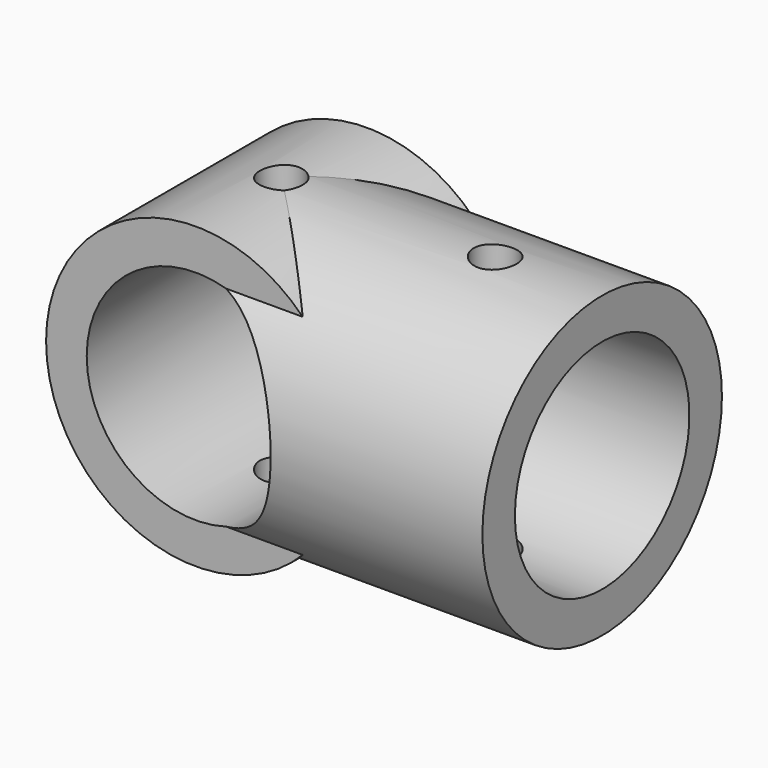
from build123d import *

# Parameters (mm, degrees)
CYLINDER001_R          = 10.2
CYLINDER001_DEPTH      = 20
CYLINDER002_R          = 2
CYLINDER002_DEPTH      = 30
CYLINDER003_R          = 2
CYLINDER003_DEPTH      = 30
CYLINDER_R             = 10.2
CYLINDER_DEPTH         = 30
CYLINDER_ROLL_ANGLE    = -90
CYLINDER004_R          = 14
CYLINDER004_DEPTH      = 30
CYLINDER005_R          = 14
CYLINDER005_DEPTH      = 20
CYLINDER005_ROLL_ANGLE = -90


with BuildPart() as cylinder001:
    # Cylinder001 → Cylinder001 (new body)
    with BuildSketch(Plane(origin=(10, 0, 0), x_dir=(0, -1, 0), z_dir=(1, 0, 0))):
        Circle(CYLINDER001_R)
    extrude(amount=CYLINDER001_DEPTH)


with BuildPart() as cylinder002:
    # Cylinder002 → Cylinder002 (new body)
    with BuildSketch(Plane.XY.offset(-15)):
        Circle(CYLINDER002_R)
    extrude(amount=CYLINDER002_DEPTH)


with BuildPart() as cylinder003:
    # Cylinder003 → Cylinder003 (new body)
    with BuildSketch(Plane(origin=(20, 0, -15), x_dir=(1, 0, 0), z_dir=(0, 0, 1))):
        Circle(CYLINDER003_R)
    extrude(amount=CYLINDER003_DEPTH)


with BuildPart() as negative_fusion:
    # Cylinder → Cylinder (new body)
    with BuildSketch(Plane.XY):
        Circle(CYLINDER_R)
    extrude(amount=CYLINDER_DEPTH)


with BuildPart() as negative_fusion_1:
    # Cylinder roll: moved
    add(negative_fusion.part.rotate(Axis((0, 0, 0), (1, 0, 0)), CYLINDER_ROLL_ANGLE))


with BuildPart() as negative_fusion_2:
    # Cylinder placement: moved
    add(negative_fusion_1.part.moved(Location((0, -15, 0))))

    # Fusion: union Cylinder001, Cylinder002, Cylinder003
    add(cylinder001.part)
    add(cylinder002.part)
    add(cylinder003.part)


with BuildPart() as cylinder004:
    # Cylinder004 → Cylinder004 (new body)
    with BuildSketch(Plane(origin=(0, 0, 0), x_dir=(0, -1, 0), z_dir=(1, 0, 0))):
        Circle(CYLINDER004_R)
    extrude(amount=CYLINDER004_DEPTH)


with BuildPart() as cut:
    # Cylinder005 → Cylinder005 (new body)
    with BuildSketch(Plane.XY):
        Circle(CYLINDER005_R)
    extrude(amount=CYLINDER005_DEPTH)


with BuildPart() as cut_1:
    # Cylinder005 roll: moved
    add(cut.part.rotate(Axis((0, 0, 0), (1, 0, 0)), CYLINDER005_ROLL_ANGLE))


with BuildPart() as cut_2:
    # Cylinder005 placement: moved
    add(cut_1.part.moved(Location((0, -10, 0))))

    # Fusion001: union Cylinder004
    add(cylinder004.part)

    # Cut: cut Negative Fusion
    add(negative_fusion_2.part, mode=Mode.SUBTRACT)


solid = cut_2.part
